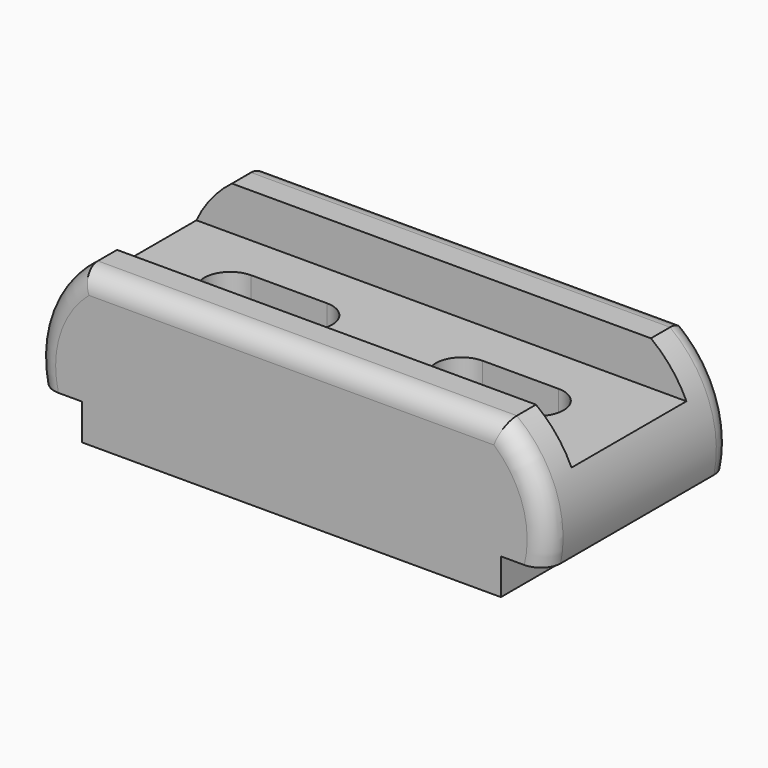
from build123d import *

# Parameters (mm, degrees)
F1_DEPTH = 29
F3_DEPTH = 38.001
F5_DEPTH = 18
F6_R     = 5


with BuildPart() as f1:
    # F0 (on Front) → F1 (new body, symmetric)
    with BuildSketch(Plane.XZ):
        with BuildLine():
            Line((0, 9), (0, 0))
            Line((0, 0), (105, 0))
            Line((105, 0), (105, 9))
            Line((105, 9), (116, 9))
            ThreePointArc((116, 9), (114.7027189695, 25.0941347815), (105, 38))
            Line((105, 38), (0, 38))
            ThreePointArc((0, 38), (-9.7027189695, 25.0941347815), (-11, 9))
            Line((-11, 9), (0, 9))
        make_face()
    extrude(amount=F1_DEPTH, both=True)

    # F2 (on face) → F3 (cut, through all)
    with BuildSketch(Plane.XY.offset(38)):
        with BuildLine():
            ThreePointArc((14, 6.5), (7.5, 0), (14, -6.5))
            Line((14, -6.5), (33, -6.5))
            ThreePointArc((33, -6.5), (39.5, 0), (33, 6.5))
            Line((33, 6.5), (14, 6.5))
        make_face()
        with BuildLine():
            ThreePointArc((72, 6.5), (65.5, 0), (72, -6.5))
            Line((72, -6.5), (91, -6.5))
            ThreePointArc((91, -6.5), (97.5, 0), (91, 6.5))
            Line((91, 6.5), (72, 6.5))
        make_face()
    extrude(amount=-F3_DEPTH, mode=Mode.SUBTRACT)

    # F4 (on Front) → F5 (cut, symmetric)
    with BuildSketch(Plane.XZ):
        with BuildLine():
            Line((105, 38), (0, 38))
            ThreePointArc((0, 38), (-5.1316907331, 33.0512170183), (-8.9009712184, 27))
            Line((-8.9009712184, 27), (113.9009712184, 27))
            ThreePointArc((113.9009712184, 27), (110.1316907331, 33.0512170183), (105, 38))
        make_face()
    extrude(amount=F5_DEPTH, both=True, mode=Mode.SUBTRACT)

    # F6
    f6_edges = [f1.edges().sort_by_distance(p)[0] for p in [
        (114.702719, 29, 25.094135),
        (52.5, 29, 38),
        (-9.702719, 29, 25.094135),
        (114.702719, -29, 25.094135),
        (52.5, -29, 38),
        (-9.702719, -29, 25.094135),
    ]]
    fillet(f6_edges, radius=F6_R)


solid = f1.part
